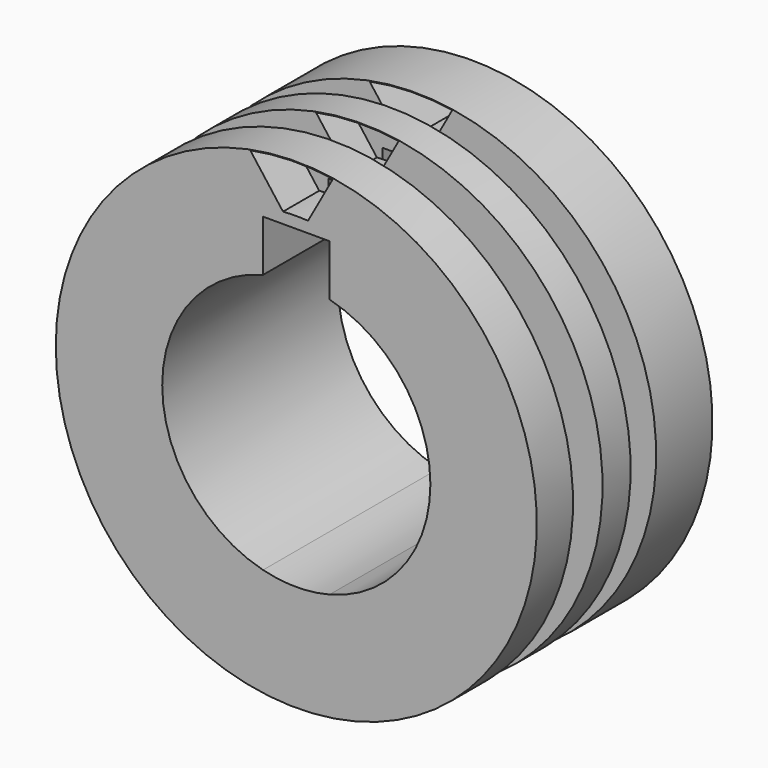
from build123d import *

# Parameters (mm, degrees)
F3_D     = 13.1064
F2_W     = 6.2990644947
F2_H     = 14.0903731808
F2_W_2   = 3.3267904073
F4_DEPTH = 121.412
F6_DEPTH = 62.23


with BuildPart() as f1:
    # F0 (on Top) → F1 (revolve)
    with BuildSketch(Plane.XY):
        Polygon((-45.5612460607, 0), (0, 0), (0, 41.5925026262), (-45.5612460607, 41.5925026262), (-45.5612460607, 28.2575048772), (-32.8612460607, 28.2575048772), (-32.8612460607, 22.2250052524), (-45.5612460607, 22.2250052524), (-45.5612460607, 15.5575048772), (-30.0037471862, 15.5575048772), (-30.0037471862, 8.5725056276), (-45.5612460607, 8.5725056276), align=None)
    revolve(axis=Axis((0, 20.7962513131, 0), (0, 1, 0)))

    # F3 (through all)
    with Locations(Plane.XZ):
        with Locations((0, 0)):
            Hole(F3_D / 2)

    # F2 (on face) → F4 (cut)
    with BuildSketch(Plane.XZ):
        with BuildLine():
            ThreePointArc((-6.2990644947, 24.6065395066), (0, 25.4), (6.2990644947, 24.6065395066))
            Line((6.2990644947, 24.6065395066), (6.2990644947, 34.3211814761))
            Line((6.2990644947, 34.3211814761), (-6.2990644947, 34.3211814761))
            Line((-6.2990644947, 34.3211814761), (-6.2990644947, 24.6065395066))
        make_face()
        with BuildLine():
            Line((-6.2990644947, -24.6065395066), (-6.2990644947, 24.6065395066))
            ThreePointArc((-6.2990644947, 24.6065395066), (-25.4, 0), (-6.2990644947, -24.6065395066))
        make_face()
        with BuildLine():
            ThreePointArc((6.2990644947, -24.6065395066), (20.0643494557, -15.5750403183), (25.4, 0))
            ThreePointArc((25.4, 0), (20.0643494557, 15.5750403183), (6.2990644947, 24.6065395066))
            Line((6.2990644947, 24.6065395066), (6.2990644947, 14.0903731808))
            Line((6.2990644947, 14.0903731808), (9.625854902, 14.0903731808))
            Line((9.625854902, 14.0903731808), (9.625854902, 0))
            Line((9.625854902, 0), (6.2990644947, 0))
            Line((6.2990644947, 0), (6.2990644947, -24.6065395066))
        make_face()
        with BuildLine():
            Line((6.2990644947, 14.0903731808), (6.2990644947, 24.6065395066))
            ThreePointArc((6.2990644947, 24.6065395066), (0, 25.4), (-6.2990644947, 24.6065395066))
            Line((-6.2990644947, 24.6065395066), (-6.2990644947, -24.6065395066))
            ThreePointArc((-6.2990644947, -24.6065395066), (0, -25.4), (6.2990644947, -24.6065395066))
            Line((6.2990644947, -24.6065395066), (6.2990644947, 0))
            Line((6.2990644947, 0), (0, 0))
            Line((0, 0), (0, 14.0903731808))
            Line((0, 14.0903731808), (6.2990644947, 14.0903731808))
        make_face()
        with Locations((3.1495322473, 7.0451865904)):
            Rectangle(F2_W, F2_H)
        with Locations((7.9624596983, 7.0451865904)):
            Rectangle(F2_W_2, F2_H)
    extrude(amount=-F4_DEPTH, mode=Mode.SUBTRACT)

    # F5 (on face) → F6 (cut)
    with BuildSketch(Plane.XZ):
        with BuildLine():
            ThreePointArc((-2.5140134585, 36.3859235352), (-0.149933756, 36.4723623453), (2.2147767132, 36.4053630567))
            Line((2.2147767132, 36.4053630567), (6.9459112404, 44.897428845))
            ThreePointArc((6.9459112404, 44.897428845), (-0.8987586114, 45.4226488969), (-8.7165118801, 44.5875231483))
            Line((-8.7165118801, 44.5875231483), (-2.5140134585, 36.3859235352))
        make_face()
    extrude(amount=-F6_DEPTH, mode=Mode.SUBTRACT)


solid = f1.part
